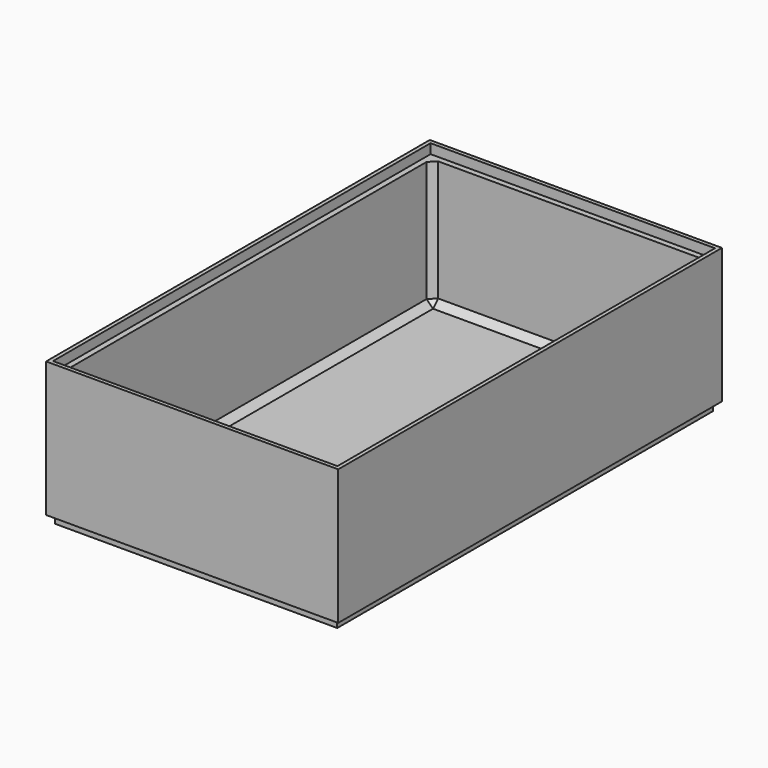
from build123d import *

# Parameters (mm, degrees)
F1_W     = 90.75
F1_H     = 149
F1_W_2   = 84.75
F1_H_2   = 143
F2_DEPTH = 44.5
F3_DEPTH = 2
F4_SIZE  = 2
F5_W     = 88.35
F5_H     = 146.6
F6_DEPTH = 3
F7_W     = 90.75
F7_H     = 149
F7_W_2   = 87.75
F7_H_2   = 146
F8_DEPTH = 2.5


with BuildPart() as f2:
    # F1 (on Top) → F2 (new body)
    with BuildSketch(Plane.XY):
        Rectangle(F1_W, F1_H)
        Rectangle(F1_W_2, F1_H_2, mode=Mode.SUBTRACT)
    extrude(amount=F2_DEPTH)

    # F1 (on Top) → F3 (join)
    with BuildSketch(Plane.XY):
        Rectangle(F1_W, F1_H)
        Rectangle(F1_W_2, F1_H_2, mode=Mode.SUBTRACT)
        Rectangle(F1_W_2, F1_H_2)
    extrude(amount=F3_DEPTH)

    # F4
    f4_edges = [f2.edges().sort_by_distance(p)[0] for p in [
        (0, 71.5, 2),
        (42.375, 0, 2),
        (-42.375, 0, 2),
        (0, -71.5, 2),
        (42.375, -71.5, 23.25),
        (42.375, 71.5, 23.25),
        (-42.375, 71.5, 23.25),
        (-42.375, -71.5, 23.25),
    ]]
    chamfer(f4_edges, length=F4_SIZE)

    # F5 (on face) → F6 (cut)
    with BuildSketch(Plane.XY.offset(44.5)):
        Rectangle(F5_W, F5_H)
        Polygon((-40.375, -71.5), (-42.375, -69.5), (-42.375, 69.5), (-40.375, 71.5), (40.375, 71.5), (42.375, 69.5), (42.375, -69.5), (40.375, -71.5), align=None, mode=Mode.SUBTRACT)
    extrude(amount=-F6_DEPTH, mode=Mode.SUBTRACT)

    # F7 (on face) → F8 (cut)
    with BuildSketch(Plane(origin=(0, 0, 0), x_dir=(1, 0, 0), z_dir=(0, 0, -1))):
        Rectangle(F7_W, F7_H)
        Rectangle(F7_W_2, F7_H_2, mode=Mode.SUBTRACT)
    extrude(amount=-F8_DEPTH, mode=Mode.SUBTRACT)


solid = f2.part
